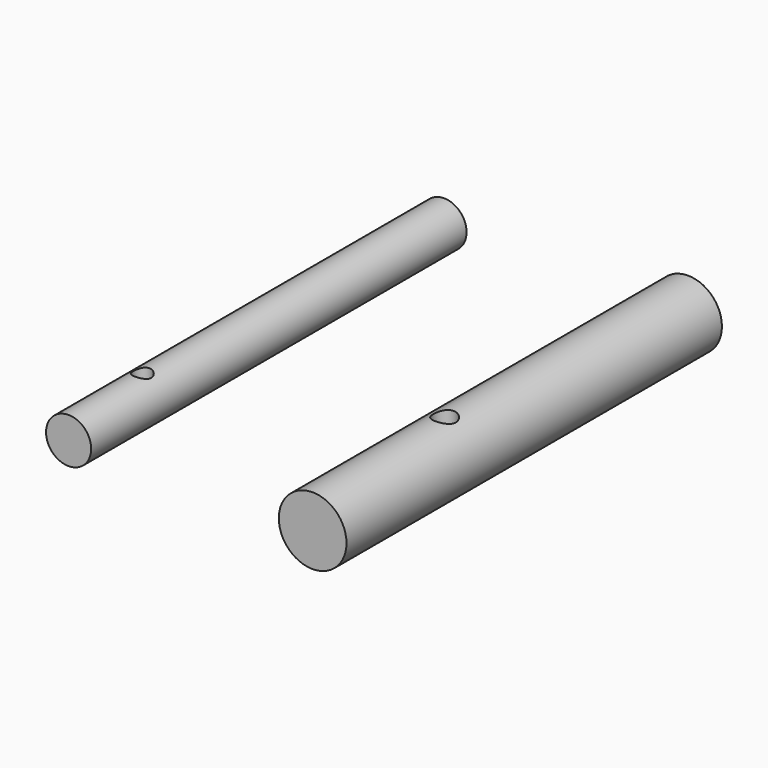
from build123d import *

# Parameters (mm, degrees)
F0_R          = 6.35
F1_DEPTH      = 132.08
F0_R_2        = 9.525
F2_R          = 2.54
F2_R_2        = 3.175
F3_DEPTH      = 9.526
F3_DEPTH_BACK = 9.526


with BuildPart() as f1:
    # F0 (on Front) → F1 (new body)
    with BuildSketch(Plane.XZ):
        Circle(F0_R)
    extrude(amount=-F1_DEPTH)


with BuildPart() as f1b:
    # F0 (on Front) → F1, piece 2 (new body)
    with BuildSketch(Plane.XZ):
        with Locations((68.685516715, 0)):
            Circle(F0_R_2)
    extrude(amount=-F1_DEPTH)


with BuildPart() as f3_tool:
    # F2 (on Top) → F3 (new body, two sides)
    with BuildSketch(Plane.XY) as f3_sk:
        with Locations((0, 25.8942256683)):
            Circle(F2_R)
        with Locations((68.685516715, 46.4168787003)):
            Circle(F2_R_2)
    extrude(amount=-F3_DEPTH)
    extrude(f3_sk.sketch, amount=F3_DEPTH_BACK)


with BuildPart() as f1_1:
    add(f1.part)

    # F3: cut by f3_tool
    add(f3_tool.part, mode=Mode.SUBTRACT)


with BuildPart() as f1b_1:
    add(f1b.part)

    # F3: cut by f3_tool
    add(f3_tool.part, mode=Mode.SUBTRACT)


solid = Compound([f1_1.part, f1b_1.part])
